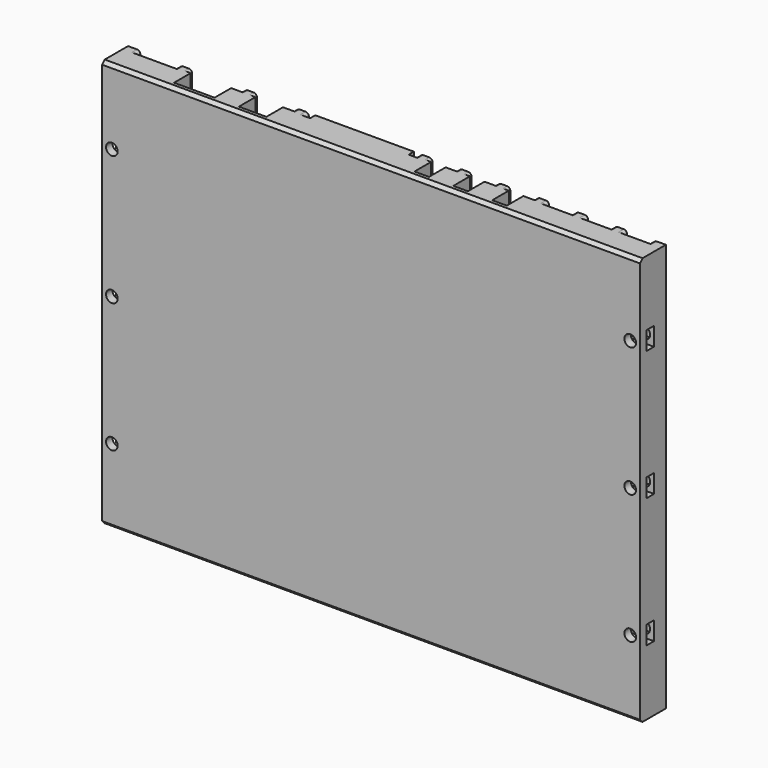
from build123d import *

# Parameters (mm, degrees)
SKETCH_W        = 166
SKETCH_H        = 10
PAD_DEPTH       = 126
SKETCH001_W     = 8.2
SKETCH001_H     = 2
SKETCH001_W_2   = 12.2
SKETCH001_W_3   = 2
POCKET_DEPTH    = 126.001
SKETCH004_R     = 1.8
POCKET001_DEPTH = 7
POCKET002_DEPTH = 1
SKETCH006_W     = 2.9
SKETCH006_H     = 5.7
POCKET003_DEPTH = 7
SKETCH007_W     = 2.9
SKETCH007_H     = 5.7
POCKET004_DEPTH = 7
CHAMFER_SIZE    = 1
CHAMFER001_SIZE = 1
FILLET_R        = 1
FILLET001_R     = 1


with BuildPart() as part:
    # Sketch → Pad (new body)
    with BuildSketch(Plane.XY):
        with Locations((0, 5)):
            Rectangle(SKETCH_W, SKETCH_H)
    extrude(amount=PAD_DEPTH)

    # Sketch001 → Pocket (cut, through all)
    with BuildSketch(Plane.XY.offset(126)):
        with Locations((75.1, 9)):
            Rectangle(SKETCH001_W, SKETCH001_H)
        with Locations((63.1, 9)):
            Rectangle(SKETCH001_W, SKETCH001_H)
        Polygon((35, 10), (43.2, 10), (43.2, 8.4), (40.3, 8.4), (40.3, 2), (35.8, 2), (35.8, 8.4), (35, 8.4), align=None)
        with Locations((51.1, 9)):
            Rectangle(SKETCH001_W, SKETCH001_H)
        Polygon((23, 10), (23, 8.4), (23.8, 8.4), (23.8, 2), (28.3, 2), (28.3, 8.4), (31.2, 8.4), (31.2, 10), align=None)
        Polygon((19.2, 10), (19.2, 8.4), (16.3, 8.4), (16.3, 2), (11.8, 2), (11.8, 8.4), (11, 8.4), (11, 10), align=None)
        Polygon((-31, 10), (-31, 8.4), (-33.9, 8.4), (-33.9, 2), (-42.4, 2), (-42.4, 8.4), (-43.2, 8.4), (-43.2, 10), align=None)
        with Locations((-73.1, 9)):
            Rectangle(SKETCH001_W_2, SKETCH001_H)
        Polygon((-63.2, 10), (-63.2, 8.4), (-62.4, 8.4), (-62.4, 2), (-49.9, 2), (-49.9, 8.4), (-47, 8.4), (-47, 10), align=None)
        with Locations((-26.2, 9)):
            Rectangle(SKETCH001_W_3, SKETCH001_H)
        with Locations((6.2, 9)):
            Rectangle(SKETCH001_W_3, SKETCH001_H)
    extrude(amount=-POCKET_DEPTH, mode=Mode.SUBTRACT)

    # Sketch004 → Pocket001 (cut)
    with BuildSketch(Plane.XZ):
        with Locations((-80, 103)):
            Circle(SKETCH004_R)
        with Locations((80, 103)):
            Circle(SKETCH004_R)
        with Locations((-80, 23)):
            Circle(SKETCH004_R)
        with Locations((80, 23)):
            Circle(SKETCH004_R)
        with Locations((80, 63)):
            Circle(SKETCH004_R)
        with Locations((-80, 63)):
            Circle(SKETCH004_R)
    extrude(amount=-POCKET001_DEPTH, mode=Mode.SUBTRACT)

    # Sketch005 → Pocket002 (cut)
    with BuildSketch(Plane(origin=(0, 10, 0), x_dir=(-1, 0, 0), z_dir=(0, 1, 0))):
        with BuildLine():
            Line((-1, 122), (8, 122))
            Line((8, 122), (8, 112))
            Line((8, 112), (-2, 112))
            Line((-2, 112), (-2, 121))
            ThreePointArc((-1, 122), (-2.707107, 122.707107), (-2, 121))
        make_face()
        with BuildLine():
            Line((13, 122), (22, 122))
            Line((22, 122), (22, 112))
            Line((22, 112), (12, 112))
            Line((12, 112), (12, 121))
            ThreePointArc((13, 122), (11.292893, 122.707107), (12, 121))
        make_face()
        with BuildLine():
            Line((-1, 108), (8, 108))
            Line((8, 108), (8, 98))
            Line((8, 98), (-2, 98))
            Line((-2, 98), (-2, 107))
            ThreePointArc((-1, 108), (-2.707107, 108.707107), (-2, 107))
        make_face()
        with BuildLine():
            Line((13, 108), (22, 108))
            Line((22, 108), (22, 98))
            Line((22, 98), (12, 98))
            Line((12, 98), (12, 107))
            ThreePointArc((13, 108), (11.292893, 108.707107), (12, 107))
        make_face()
        with BuildLine():
            Line((-1, 94), (22, 94))
            Line((22, 94), (22, 70))
            Line((22, 70), (-2, 70))
            Line((-2, 70), (-2, 93))
            ThreePointArc((-1, 94), (-2.707107, 94.707107), (-2, 93))
        make_face()
        with BuildLine():
            Line((-1, 66), (22, 66))
            Line((22, 66), (22, 42))
            Line((22, 42), (-2, 42))
            Line((-2, 42), (-2, 65))
            ThreePointArc((-1, 66), (-2.707107, 66.707107), (-2, 65))
        make_face()
        with BuildLine():
            Line((-1, 38), (8, 38))
            Line((8, 38), (8, 3))
            Line((8, 3), (-2, 3))
            Line((-2, 3), (-2, 37))
            ThreePointArc((-1, 38), (-2.707107, 38.707107), (-2, 37))
        make_face()
        with BuildLine():
            Line((13, 38), (22, 38))
            Line((22, 38), (22, 3))
            Line((22, 3), (12, 3))
            Line((12, 3), (12, 37))
            ThreePointArc((13, 38), (11.292893, 38.707107), (12, 37))
        make_face()
    extrude(amount=-POCKET002_DEPTH, mode=Mode.SUBTRACT)

    # Sketch006 → Pocket003 (cut)
    with BuildSketch(Plane.YZ.offset(83)):
        with Locations((3.954176, 103)):
            Rectangle(SKETCH006_W, SKETCH006_H)
        with Locations((3.993095, 63)):
            Rectangle(SKETCH006_W, SKETCH006_H)
        with Locations((3.954317, 23)):
            Rectangle(SKETCH006_W, SKETCH006_H)
    extrude(amount=-POCKET003_DEPTH, mode=Mode.SUBTRACT)

    # Sketch007 → Pocket004 (cut)
    with BuildSketch(Plane(origin=(-83, 0, 0), x_dir=(0, -1, 0), z_dir=(-1, 0, 0))):
        with Locations((-3.95, 103)):
            Rectangle(SKETCH007_W, SKETCH007_H)
        with Locations((-3.95, 63)):
            Rectangle(SKETCH007_W, SKETCH007_H)
        with Locations((-3.95, 23)):
            Rectangle(SKETCH007_W, SKETCH007_H)
    extrude(amount=-POCKET004_DEPTH, mode=Mode.SUBTRACT)

    # Chamfer
    chamfer_edges = [part.edges().sort_by_distance(p)[0] for p in [
        (0, 0, 0),
    ]]
    chamfer(chamfer_edges, length=CHAMFER_SIZE)

    # Chamfer001
    chamfer001_edges = [part.edges().sort_by_distance(p)[0] for p in [
        (0, 0, 126),
    ]]
    chamfer(chamfer001_edges, length=CHAMFER001_SIZE)

    # Fillet
    fillet_edges = [part.edges().sort_by_distance(p)[0] for p in [
        (79.2, 9, 0),
        (71, 9, 0),
        (59, 9, 0),
        (47, 9, 0),
        (35, 9.2, 0),
        (55.2, 9, 0),
        (67.2, 9, 0),
        (43.2, 9.2, 0),
        (31.2, 9.2, 0),
        (23, 9.2, 0),
        (19.2, 9.2, 0),
        (11, 9.2, 0),
        (7.2, 9, 0),
        (-27.2, 9, 0),
        (-31, 9.2, 0),
        (-43.2, 9.2, 0),
        (-47, 9.2, 0),
        (-63.2, 9.2, 0),
        (-67, 9, 0),
        (-79.2, 9, 0),
    ]]
    fillet(fillet_edges, radius=FILLET_R)

    # Fillet001
    fillet001_edges = [part.edges().sort_by_distance(p)[0] for p in [
        (-79.2, 9, 126),
        (-67, 9, 126),
        (-63.2, 9.2, 126),
        (-47, 9.2, 126),
        (-43.2, 9.2, 126),
        (-31, 9.2, 126),
        (-27.2, 9, 126),
        (7.2, 9, 126),
        (11, 9.2, 126),
        (19.2, 9.2, 126),
        (23, 9.2, 126),
        (31.2, 9.2, 126),
        (35, 9.2, 126),
        (43.2, 9.2, 126),
        (47, 9, 126),
        (55.2, 9, 126),
        (59, 9, 126),
        (67.2, 9, 126),
        (71, 9, 126),
        (79.2, 9, 126),
    ]]
    fillet(fillet001_edges, radius=FILLET001_R)


solid = part.part
